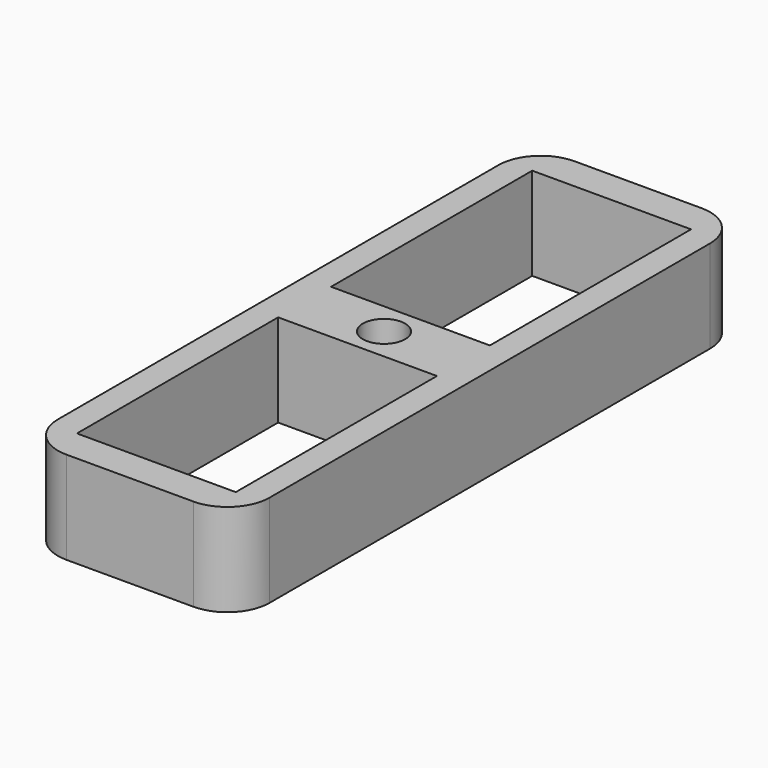
from build123d import *

# Parameters (mm, degrees)
F0_W     = 25.4
F0_H     = 76.2
F0_W_2   = 19.05
F0_H_2   = 30.1625
F0_R     = 2.54
F1_DEPTH = 11.1125
F2_R     = 5.08


with BuildPart() as f1:
    # F0 (on Top) → F1 (new body)
    with BuildSketch(Plane.XY):
        Rectangle(F0_W, F0_H)
        with Locations((0, -19.05)):
            Rectangle(F0_W_2, F0_H_2, mode=Mode.SUBTRACT)
        Circle(F0_R, mode=Mode.SUBTRACT)
        with Locations((0, 19.05)):
            Rectangle(F0_W_2, F0_H_2, mode=Mode.SUBTRACT)
    extrude(amount=F1_DEPTH)

    # F2
    f2_edges = [f1.edges().sort_by_distance(p)[0] for p in [
        (12.7, -38.1, 5.55625),
        (-12.7, -38.1, 5.55625),
        (12.7, 38.1, 5.55625),
        (-12.7, 38.1, 5.55625),
    ]]
    fillet(f2_edges, radius=F2_R)


solid = f1.part
